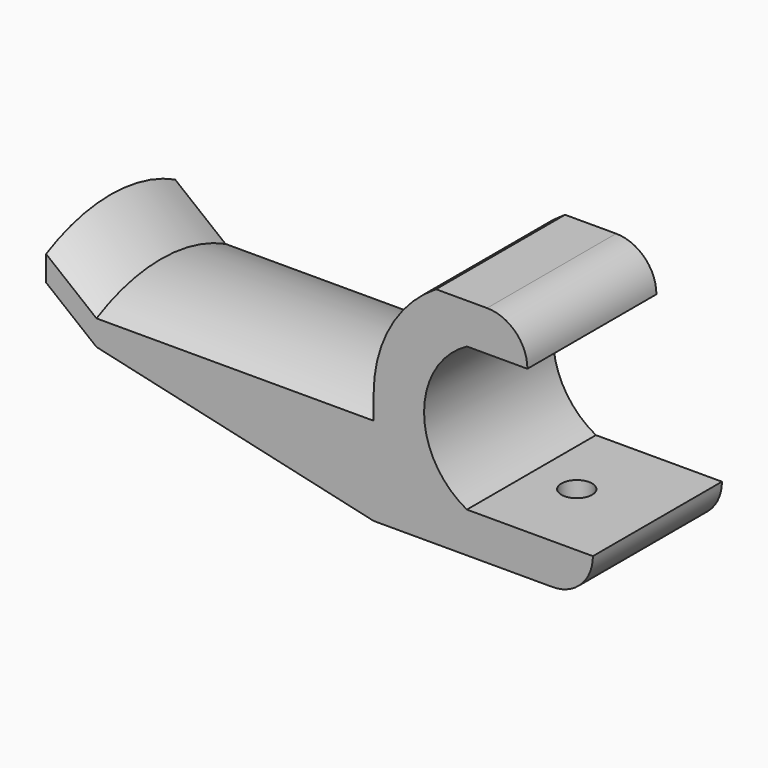
from build123d import *

# Parameters (mm, degrees)
F1_DEPTH      = 16
F1_DEPTH_BACK = 16
F3_DEPTH      = 55
F8_R          = 1.75
F9_DEPTH      = 25
F10_R         = 3.05
F11_DEPTH     = 3.5


with BuildPart() as f1:
    # F0 (on Front) → F1 (new body, two sides)
    with BuildSketch(Plane.XZ) as f1_sk:
        with BuildLine():
            ThreePointArc((8.5, -14.25), (0, 0), (8.5, 14.25))
            Line((8.5, 14.25), (20.5, 14.25))
            ThreePointArc((20.5, 14.25), (18.1568542495, 19.9068542495), (12.5, 22.25))
            Line((12.5, 22.25), (2.3706777177, 22.25))
            ThreePointArc((2.3706777177, 22.25), (-6.6993882302, 12.7288664774), (-10, 0))
            Line((-10, 0), (-10, -22.25))
            Line((-10, -22.25), (25.5, -22.25))
            ThreePointArc((25.5, -22.25), (31.1568542495, -19.9068542495), (33.5, -14.25))
            Line((33.5, -14.25), (8.5, -14.25))
        make_face()
    extrude(amount=F1_DEPTH)
    extrude(f1_sk.sketch, amount=-F1_DEPTH_BACK)

    # F2 (on face) → F3 (join)
    with BuildSketch(Plane(origin=(-10, 0, 0), x_dir=(0, -1, 0), z_dir=(-1, 0, 0))):
        with BuildLine():
            Line((16, -9.75), (16, -4.75))
            ThreePointArc((16, -4.75), (0, -0.8787648325), (-16, -4.75))
            Line((-16, -4.75), (-16, -9.75))
            ThreePointArc((-16, -9.75), (0, -13.6212351675), (16, -9.75))
        make_face()
    extrude(amount=F3_DEPTH)

    # F3_face (on face) → F5 section 0
    with BuildSketch(Plane(origin=(-10, 0, -17.2392152615), x_dir=(0, -1, 0), z_dir=(-1, 0, 0))):
        with BuildLine():
            ThreePointArc((16, 7.4892152615), (0, 3.617980094), (-16, 7.4892152615))
            Line((-16, 7.4892152615), (-16, -5.0107847385))
            Line((-16, -5.0107847385), (16, -5.0107847385))
            Line((16, -5.0107847385), (16, 7.4892152615))
        make_face()
    # F3_face1 (on face) → F5 section 1
    with BuildSketch(Plane(origin=(-65, 0, -7.25), x_dir=(0, -1, 0), z_dir=(-1, 0, 0))):
        with BuildLine():
            Line((-16, 2.5), (-16, -2.5))
            ThreePointArc((-16, -2.5), (0, -6.3712351675), (16, -2.5))
            Line((16, -2.5), (16, 2.5))
            ThreePointArc((16, 2.5), (0, 6.3712351675), (-16, 2.5))
        make_face()
    loft()

    # F3_face1 (on face) → F7 section 0
    with BuildSketch(Plane(origin=(-65, 0, -7.25), x_dir=(0, -1, 0), z_dir=(-1, 0, 0))):
        with BuildLine():
            Line((-16, 2.5), (-16, -2.5))
            ThreePointArc((-16, -2.5), (0, -6.3712351675), (16, -2.5))
            Line((16, -2.5), (16, 2.5))
            ThreePointArc((16, 2.5), (0, 6.3712351675), (-16, 2.5))
        make_face()
    # F6 (on offset) → F7 section 1
    with BuildSketch(Plane(origin=(-75, 0, 0), x_dir=(0, -1, 0), z_dir=(-1, 0, 0))):
        with BuildLine():
            ThreePointArc((-16, -1.75), (0, -5.6212351675), (16, -1.75))
            Line((16, -1.75), (16, 3.25))
            ThreePointArc((16, 3.25), (0, 7.1212351675), (-16, 3.25))
            Line((-16, 3.25), (-16, -1.75))
        make_face()
    loft()

    # F8 (on face) → F9 (cut)
    with BuildSketch(Plane(origin=(0, 0, -22.25), x_dir=(1, 0, 0), z_dir=(0, 0, -1))):
        with Locations((17.5, 0)):
            Circle(F8_R)
    extrude(amount=-F9_DEPTH, mode=Mode.SUBTRACT)

    # F10 (on face) → F11 (cut)
    with BuildSketch(Plane.XY.offset(-14.25)):
        with Locations((17.5, 0)):
            Circle(F10_R)
    extrude(amount=-F11_DEPTH, mode=Mode.SUBTRACT)


solid = f1.part
